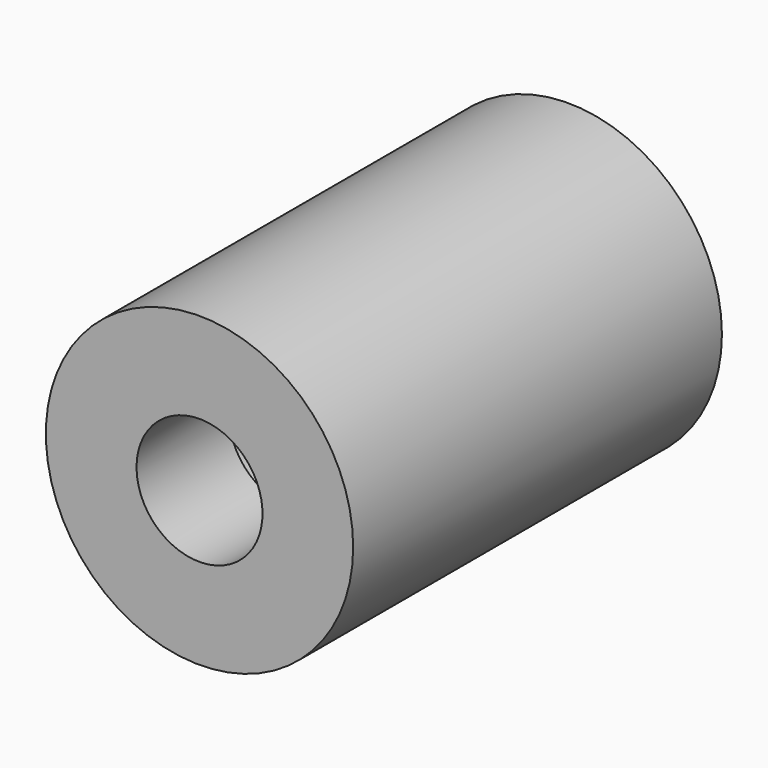
from build123d import *

# Parameters (mm, degrees)
F0_R     = 10
F1_DEPTH = 30
F3_D     = 16.5
F3_DEPTH = 20
F3_TIP   = 4.957100107
F5_D     = 8.2
F5_DEPTH = 100
F5_START = 22.4935716
F5_TIP   = 2.463528538


with BuildPart() as f1:
    # F0 (on Front) → F1 (new body)
    with BuildSketch(Plane.XZ):
        Circle(F0_R)
    extrude(amount=F1_DEPTH)

    # F3
    with Locations(Plane(origin=(0, 0, 0), x_dir=(1, 0, 0), z_dir=(0, 1, 0))):
        with Locations((0, 0)):
            Hole(F3_D / 2, depth=F3_DEPTH)
            with Locations((0, 0, -(F3_DEPTH + F3_TIP / 2))):  # 118° drill point
                Cone(0, F3_D / 2, F3_TIP, mode=Mode.SUBTRACT)

    # F5
    # its depths count from where the whole tool has entered the part; down to there all is cleared
    with Locations(Plane(origin=(0, 0, 0), x_dir=(1, 0, 0), z_dir=(0, 1, 0)).offset(-F5_START)):
        with Locations((0, 0)):
            Hole(F5_D / 2, depth=F5_DEPTH)
            with Locations((0, 0, -(F5_DEPTH + F5_TIP / 2))):  # 118° drill point
                Cone(0, F5_D / 2, F5_TIP, mode=Mode.SUBTRACT)


solid = f1.part
